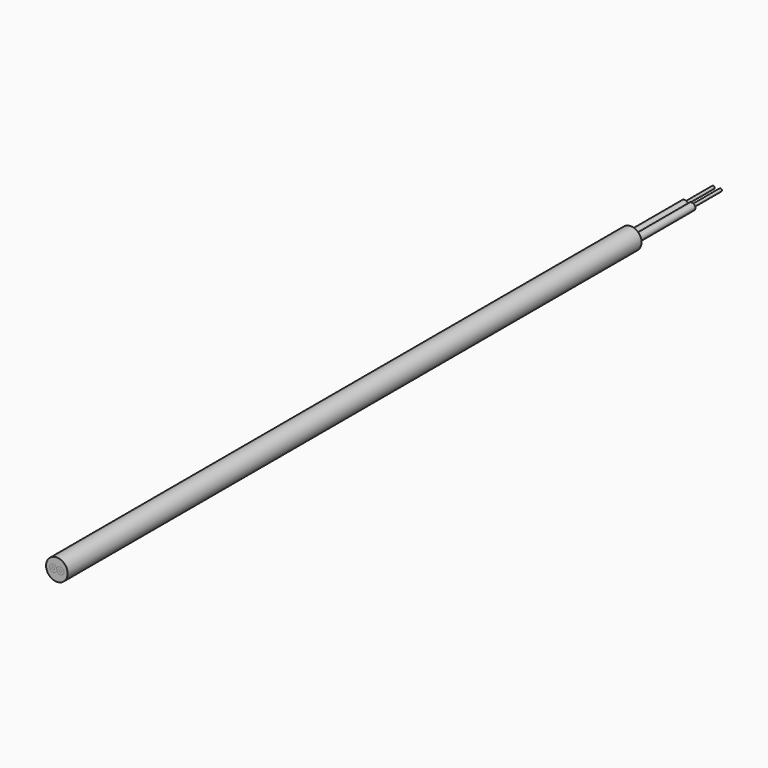
from build123d import *

# Parameters (mm, degrees)
F0_R     = 1.5
F1_DEPTH = 50
F2_R     = 0.2
F3_DEPTH = 110
F2_R_2   = 0.5
F4_DEPTH = 110
F5_DEPTH = 115


with BuildPart() as f1:
    # F0 (on Front) → F1 (new body, symmetric)
    with BuildSketch(Plane.XZ):
        Circle(F0_R)
    extrude(amount=F1_DEPTH, both=True)


with BuildPart() as f3:
    # F2 (on face) → F3 (new body)
    with BuildSketch(Plane.XZ.offset(50)):
        with BuildLine():
            ThreePointArc((0, 0), (0.5, -0.5), (1, 0))
            ThreePointArc((1, 0), (0.5, 0.5), (0, 0))
        make_face()
        with Locations((0.5, 0)):
            Circle(F2_R, mode=Mode.SUBTRACT)
    extrude(amount=-F3_DEPTH)


with BuildPart() as f4:
    # F2 (on face) → F4 (new body)
    with BuildSketch(Plane.XZ.offset(50)):
        with Locations((-0.5, 0)):
            Circle(F2_R_2)
        with Locations((-0.5, 0)):
            Circle(F2_R, mode=Mode.SUBTRACT)
    extrude(amount=-F4_DEPTH)


with BuildPart() as f5:
    # F2 (on face) → F5 (new body)
    with BuildSketch(Plane.XZ.offset(50)):
        with Locations((-0.5, 0)):
            Circle(F2_R)
    extrude(amount=-F5_DEPTH)


with BuildPart() as f5b:
    # F2 (on face) → F5, piece 2 (new body)
    with BuildSketch(Plane.XZ.offset(50)):
        with Locations((0.5, 0)):
            Circle(F2_R)
    extrude(amount=-F5_DEPTH)


solid = Compound([f1.part, f3.part, f4.part, f5.part, f5b.part])
